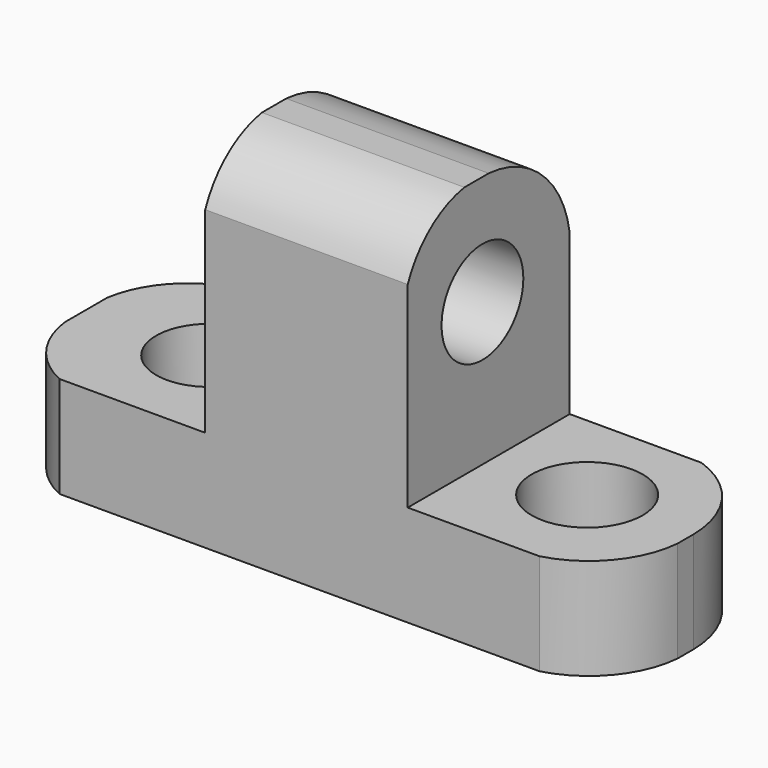
from build123d import *

# Parameters (mm, degrees)
F0_W      = 76.2
F0_H      = 44.45
F1_DEPTH  = 25.4
F2_W      = 25.4
F2_H      = 31.75
F3_DEPTH  = 25.4
F5_DEPTH  = 25.4
F6_R      = 6.4097616639
F7_DEPTH  = 25.4
F9_DEPTH  = 25.4
F11_DEPTH = 25.4
F12_R     = 6.9616762065
F12_R_2   = 6.701591824
F13_DEPTH = 25.4


with BuildPart() as f1:
    # F0 (on Front) → F1 (new body)
    with BuildSketch(Plane.XZ):
        with Locations((38.1, 22.225)):
            Rectangle(F0_W, F0_H)
        with Locations((38.1, 22.225)):
            Rectangle(F0_W, F0_H)
    extrude(amount=F1_DEPTH)

    # F2 (on face) → F3 (cut)
    with BuildSketch(Plane.XZ.offset(25.4)):
        with Locations((12.7, 28.575)):
            Rectangle(F2_W, F2_H)
        with Locations((63.5, 28.575)):
            Rectangle(F2_W, F2_H)
    extrude(amount=-F3_DEPTH, mode=Mode.SUBTRACT)

    # F4 (on face) → F5 (cut)
    with BuildSketch(Plane.YZ.offset(50.8)):
        with BuildLine():
            ThreePointArc((-25.4, 37.343819084), (-21.8851025395, 42.054991557), (-16.517273855, 44.45))
            Line((-16.517273855, 44.45), (-25.4, 44.45))
            Line((-25.4, 44.45), (-25.4, 37.343819084))
        make_face()
        with BuildLine():
            Line((0, 44.45), (-12.7, 44.45))
            ThreePointArc((-12.7, 44.45), (-4.2917980427, 40.8099765707), (0, 32.7150336876))
            Line((0, 32.7150336876), (0, 44.45))
        make_face()
    extrude(amount=-F5_DEPTH, mode=Mode.SUBTRACT)

    # F6 (on face) → F7 (cut)
    with BuildSketch(Plane.YZ.offset(50.8)):
        with Locations((-13.6843539452, 30.6450168438)):
            Circle(F6_R)
    extrude(amount=-F7_DEPTH, mode=Mode.SUBTRACT)

    # F8 (on face) → F9 (cut)
    with BuildSketch(Plane.XY.offset(12.7)):
        with BuildLine():
            Line((0, 0), (0, -9.0078908736))
            ThreePointArc((0, -9.0078908736), (2.3832082238, -3.5743776274), (7.1188784204, 0))
            Line((7.1188784204, 0), (0, 0))
        make_face()
        with BuildLine():
            ThreePointArc((7.1188784204, -25.4), (2.2814327848, -21.4359106329), (0, -15.612685647))
            Line((0, -15.612685647), (0, -25.4))
            Line((0, -25.4), (7.1188784204, -25.4))
        make_face()
    extrude(amount=-F9_DEPTH, mode=Mode.SUBTRACT)

    # F10 (on face) → F11 (cut)
    with BuildSketch(Plane.XY.offset(12.7)):
        with BuildLine():
            ThreePointArc((67.3354417086, 0), (73.7069873412, -4.7726544119), (76.2, -12.3330586186))
            Line((76.2, -12.3330586186), (76.2, 0))
            Line((76.2, 0), (67.3354417086, 0))
        make_face()
        with BuildLine():
            ThreePointArc((76.2, -14.8152652197), (73.4320785831, -21.5015075072), (67.3354417086, -25.4))
            Line((67.3354417086, -25.4), (76.2, -25.4))
            Line((76.2, -25.4), (76.2, -14.8152652197))
        make_face()
    extrude(amount=-F11_DEPTH, mode=Mode.SUBTRACT)

    # F12 (on face) → F13 (cut)
    with BuildSketch(Plane.XY.offset(12.7)):
        with Locations((62.8318414092, -12.3102882603)):
            Circle(F12_R)
        with Locations((15.475823544, -12.3102882603)):
            Circle(F12_R_2)
    extrude(amount=-F13_DEPTH, mode=Mode.SUBTRACT)


solid = f1.part
